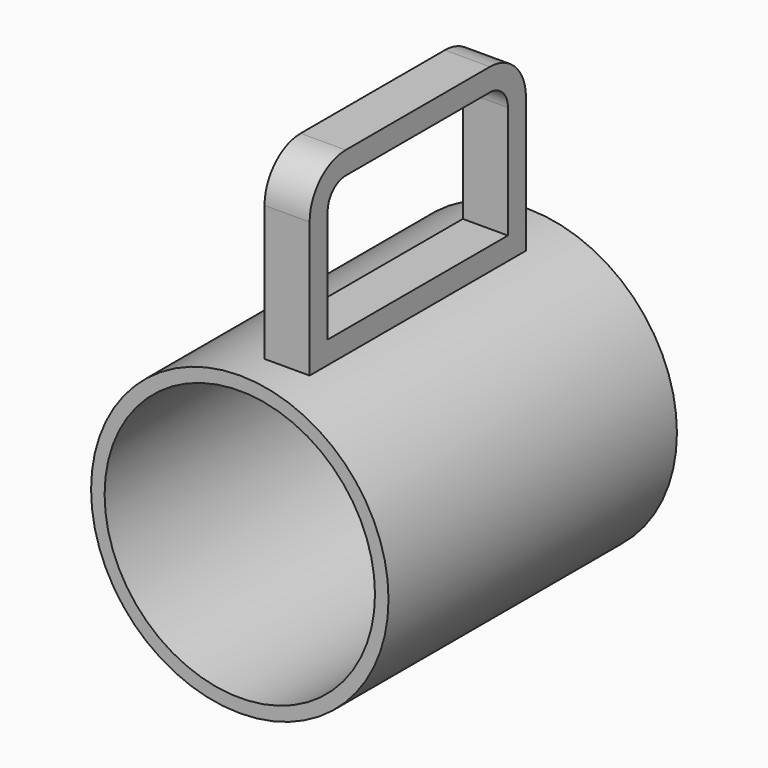
from build123d import *

# Parameters (mm, degrees)
F0_R     = 41.91
F0_R_2   = 38.1
F1_DEPTH = 101.6
F3_DEPTH = 12.7


with BuildPart() as f1:
    # F0 (on Front) → F1 (new body)
    with BuildSketch(Plane.XZ):
        Circle(F0_R)
        Circle(F0_R_2, mode=Mode.SUBTRACT)
    extrude(amount=F1_DEPTH)


with BuildPart() as f3:
    # F2 (on Right) → F3 (new body)
    with BuildSketch(Plane.YZ):
        with BuildLine():
            Line((-92.877778, 80.543227), (-92.877778, 42.443227))
            Line((-92.877778, 42.443227), (-16.677778, 42.443227))
            Line((-16.677778, 42.443227), (-16.677778, 80.543227))
            ThreePointArc((-16.677778, 80.543227), (-20.397522, 89.523483), (-29.377778, 93.243227))
            Line((-29.377778, 93.243227), (-80.177778, 93.243227))
            ThreePointArc((-80.177778, 93.243227), (-89.158034, 89.523483), (-92.877778, 80.543227))
        make_face()
        with BuildLine():
            ThreePointArc((-86.527778, 80.543227), (-84.667906, 85.033355), (-80.177778, 86.893227))
            Line((-80.177778, 86.893227), (-29.377778, 86.893227))
            ThreePointArc((-29.377778, 86.893227), (-24.88765, 85.033355), (-23.027778, 80.543227))
            Line((-23.027778, 80.543227), (-23.027778, 48.793227))
            Line((-23.027778, 48.793227), (-86.527778, 48.793227))
            Line((-86.527778, 48.793227), (-86.527778, 80.543227))
        make_face(mode=Mode.SUBTRACT)
    extrude(amount=F3_DEPTH)


solid = Compound([f1.part, f3.part])
